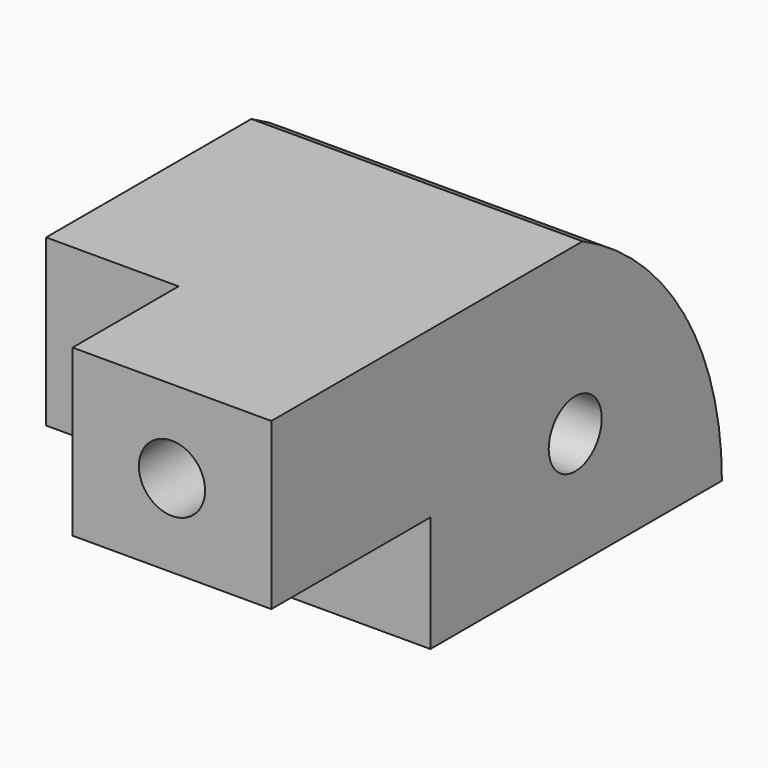
from build123d import *

# Parameters (mm, degrees)
F0_W      = 127
F0_H      = 215.9
F1_DEPTH  = 107.95
F3_W      = 76.2
F3_H      = 44.45
F3_W_2    = 50.8
F4_DEPTH  = 76.2
F5_D      = 25.4
F7_DEPTH  = 127.001
F9_D      = 25.4
F3_H_2    = 63.5
F10_DEPTH = 50.8


with BuildPart() as f1:
    # F0 (on Top) → F1 (new body)
    with BuildSketch(Plane.XY):
        with Locations((63.5, 108.900839)):
            Rectangle(F0_W, F0_H)
    extrude(amount=F1_DEPTH)

    # F3 (on face) → F4 (cut)
    with BuildSketch(Plane.XZ.offset(-0.950839)):
        with Locations((88.9, 22.225)):
            Rectangle(F3_W, F3_H)
        with Locations((88.9, 22.225)):
            Rectangle(F3_W, F3_H)
        with Locations((25.4, 22.225)):
            Rectangle(F3_W_2, F3_H)
    extrude(amount=-F4_DEPTH, mode=Mode.SUBTRACT)

    # F5 (through all)
    with Locations(Plane.YZ.offset(127)):
        with Locations((146.548077, 44.45)):
            Hole(F5_D / 2)

    # F6 (on face) → F7 (cut, through all)
    with BuildSketch(Plane.YZ.offset(127)):
        with BuildLine():
            ThreePointArc((150.082376, 107.95), (198.809879, 63.46501), (216.850839, 0))
            Line((216.850839, 0), (216.850839, 107.95))
            Line((216.850839, 107.95), (150.082376, 107.95))
        make_face()
    extrude(amount=-F7_DEPTH, mode=Mode.SUBTRACT)

    # F9 (through all)
    with Locations(Plane.XZ.offset(-0.950839)):
        with Locations((88.9, 76.2)):
            Hole(F9_D / 2)

    # F3 (on face) → F10 (cut)
    with BuildSketch(Plane.XZ.offset(-0.950839)):
        with Locations((25.4, 76.2)):
            Rectangle(F3_W_2, F3_H_2)
    extrude(amount=-F10_DEPTH, mode=Mode.SUBTRACT)


solid = f1.part
